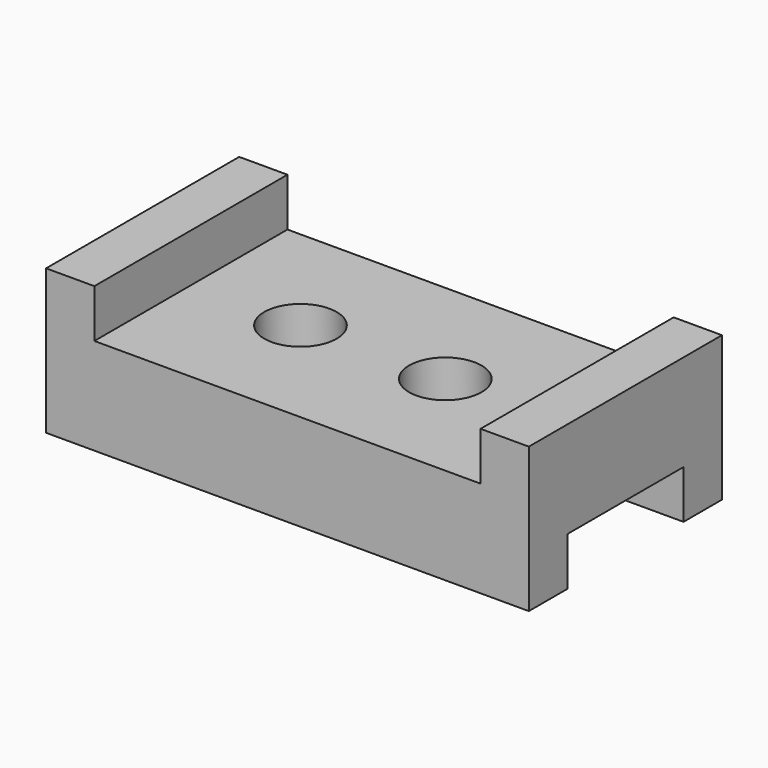
from build123d import *

# Parameters (mm, degrees)
F0_W     = 127
F0_H     = 63.5
F1_DEPTH = 38.1
F2_W     = 101.6
F2_H     = 12.7
F3_DEPTH = 63.5
F4_W     = 38.1
F4_H     = 12.7
F5_DEPTH = 127.001
F7_D     = 19.05


with BuildPart() as f1:
    # F0 (on Top) → F1 (new body)
    with BuildSketch(Plane.XY):
        with Locations((-13.469666, -27.621665)):
            Rectangle(F0_W, F0_H)
    extrude(amount=F1_DEPTH)

    # F2 (on face) → F3 (cut, through all)
    with BuildSketch(Plane.XZ.offset(59.371665)):
        with Locations((-13.469666, 31.75)):
            Rectangle(F2_W, F2_H)
    extrude(amount=-F3_DEPTH, mode=Mode.SUBTRACT)

    # F4 (on face) → F5 (cut, through all)
    with BuildSketch(Plane.YZ.offset(50.030334)):
        with Locations((-27.556809, 6.35)):
            Rectangle(F4_W, F4_H)
    extrude(amount=-F5_DEPTH, mode=Mode.SUBTRACT)

    # F7 (through all)
    with Locations(Plane.XY.offset(25.4)):
        with Locations((-35.552364, -27.488971), (2.547636, -27.488971)):
            Hole(F7_D / 2)


solid = f1.part
